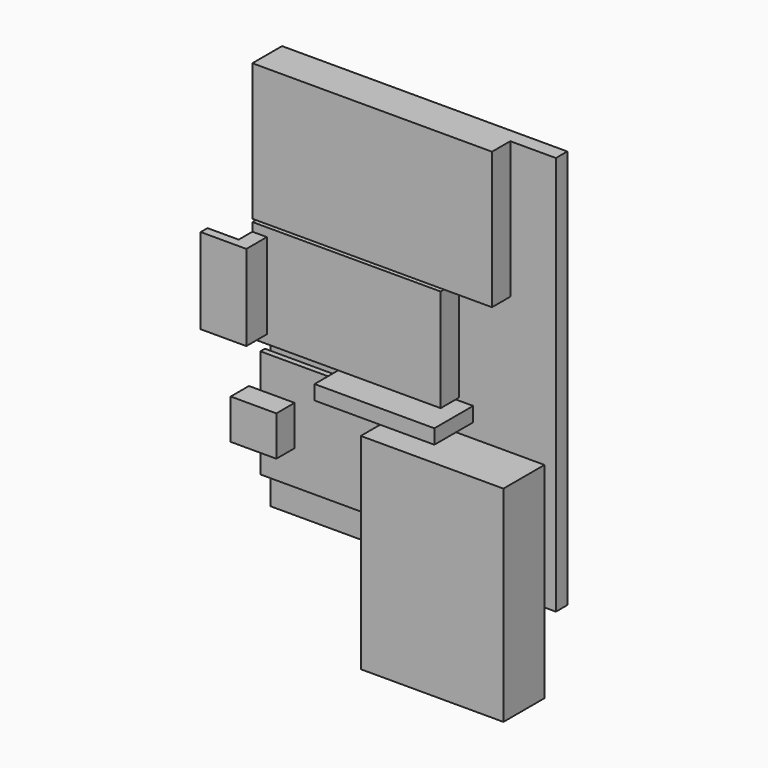
from build123d import *

# Parameters (mm, degrees)
F0_W      = 50
F0_H      = 70
F1_DEPTH  = 1
F2_W      = 42
F2_H      = 24
F3_DEPTH  = 4
F4_W      = 25
F4_H      = 36
F5_DEPTH  = 9
F6_W      = 24
F6_H      = 19
F7_DEPTH  = 1
F8_W      = 8
F8_H      = 7
F9_DEPTH  = 4
F10_W     = 33
F10_H     = 18
F11_DEPTH = 4
F12_W     = 2.54
F12_H     = 15
F13_DEPTH = 3
F15_DEPTH = 15
F16_W     = 21
F16_H     = 2.54
F17_DEPTH = 8.5
F18_W     = 1.5
F18_H     = 11
F19_DEPTH = 1.5
F20_DEPTH = 1.5


with BuildPart() as f1:
    # F0 (on Front) → F1 (new body)
    with BuildSketch(Plane.XZ):
        Rectangle(F0_W, F0_H)
    extrude(amount=F1_DEPTH)

    # F2 (on face) → F3 (join)
    with BuildSketch(Plane.XZ.offset(1)):
        with Locations((-4, 23)):
            Rectangle(F2_W, F2_H)
    extrude(amount=F3_DEPTH)

    # F4 (on face) → F5 (join)
    with BuildSketch(Plane.XZ.offset(1)):
        with Locations((10.5, -31)):
            Rectangle(F4_W, F4_H)
    extrude(amount=F5_DEPTH)

    # F6 (on face) → F7 (join)
    with BuildSketch(Plane.XZ.offset(1)):
        with Locations((-14, -20.5)):
            Rectangle(F6_W, F6_H)
    extrude(amount=F7_DEPTH)

    # F8 (on face) → F9 (join)
    with BuildSketch(Plane.XZ.offset(2)):
        with Locations((-24, -20.5)):
            Rectangle(F8_W, F8_H)
    extrude(amount=F9_DEPTH)

    # F10 (on face) → F11 (join)
    with BuildSketch(Plane.XZ.offset(1)):
        with Locations((-8.5, 1.5)):
            Rectangle(F10_W, F10_H)
    extrude(amount=F11_DEPTH)

    # F12 (on face) → F13 (join)
    with BuildSketch(Plane.XZ.offset(5)):
        with Locations((-23.73, 1.5)):
            Rectangle(F12_W, F12_H)
    extrude(amount=F13_DEPTH)

    # F14 (on face) → F15 (join, through all)
    with BuildSketch(Plane(origin=(0, 0, -6), x_dir=(1, 0, 0), z_dir=(0, 0, -1))):
        Polygon((-22.46, 9.5), (-30.46, 9.5), (-30.46, 8), (-25, 8), (-22.46, 8), align=None)
    extrude(amount=-F15_DEPTH)

    # F16 (on face) → F17 (join)
    with BuildSketch(Plane.XZ.offset(1)):
        with Locations((0, -9.23)):
            Rectangle(F16_W, F16_H)
    extrude(amount=F17_DEPTH)

    # F18 (on face) → F19 (join)
    with BuildSketch(Plane(origin=(-25, 0, 0), x_dir=(0, -1, 0), z_dir=(-1, 0, 0))):
        with Locations((1.75, 23.5)):
            Rectangle(F18_W, F18_H)
    extrude(amount=F19_DEPTH)

    # F20 (add): a face of the model
    f20_faces = [f1.faces().sort_by_distance(p)[0] for p in [
        (0, 0, 0),
    ]]
    extrude(f20_faces, amount=F20_DEPTH)


solid = f1.part
